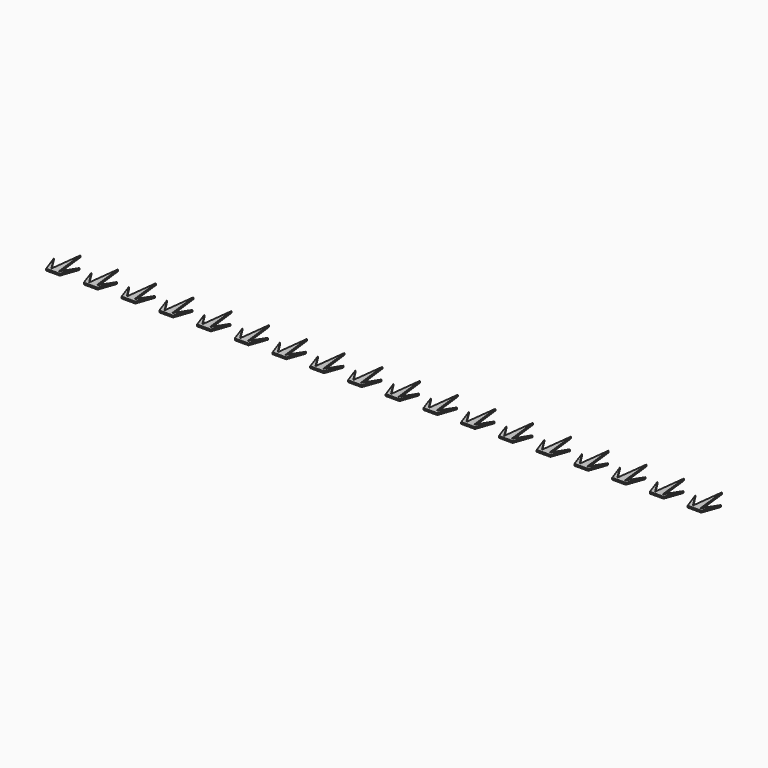
from build123d import *

# Parameters (mm, degrees)
F1_DEPTH = 5


with BuildPart() as f1:
    # F0 (on Top) → F1 (new body)
    with BuildSketch(Plane.XY):
        Polygon((-20, 0), (0, 0), (20, 0), (37.5, 49.839769), (11.039143, 7.96875), (0, 100), (-11.039143, 7.96875), (-37.5, 49.839769), align=None)
        Polygon((98.960857, 7.96875), (72.5, 49.839769), (90, 0), (110, 0), (130, 0), (147.5, 49.839769), (121.039143, 7.96875), (110, 100), align=None)
        Polygon((208.960857, 7.96875), (182.5, 49.839769), (200, 0), (220, 0), (240, 0), (257.5, 49.839769), (231.039143, 7.96875), (220, 100), align=None)
        Polygon((318.960857, 7.96875), (292.5, 49.839769), (310, 0), (330, 0), (350, 0), (367.5, 49.839769), (341.039143, 7.96875), (330, 100), align=None)
        Polygon((428.960857, 7.96875), (402.5, 49.839769), (420, 0), (440, 0), (460, 0), (477.5, 49.839769), (451.039143, 7.96875), (440, 100), align=None)
        Polygon((538.960857, 7.96875), (512.5, 49.839769), (530, 0), (550, 0), (570, 0), (587.5, 49.839769), (561.039143, 7.96875), (550, 100), align=None)
        Polygon((648.960857, 7.96875), (622.5, 49.839769), (640, 0), (660, 0), (680, 0), (697.5, 49.839769), (671.039143, 7.96875), (660, 100), align=None)
        Polygon((758.960857, 7.96875), (732.5, 49.839769), (750, 0), (770, 0), (790, 0), (807.5, 49.839769), (781.039143, 7.96875), (770, 100), align=None)
        Polygon((868.960857, 7.96875), (842.5, 49.839769), (860, 0), (880, 0), (900, 0), (917.5, 49.839769), (891.039143, 7.96875), (880, 100), align=None)
        Polygon((978.960857, 7.96875), (952.5, 49.839769), (970, 0), (990, 0), (1010, 0), (1027.5, 49.839769), (1001.039143, 7.96875), (990, 100), align=None)
        Polygon((1088.960857, 7.96875), (1062.5, 49.839769), (1080, 0), (1100, 0), (1120, 0), (1137.5, 49.839769), (1111.039143, 7.96875), (1100, 100), align=None)
        Polygon((1198.960857, 7.96875), (1172.5, 49.839769), (1190, 0), (1210, 0), (1230, 0), (1247.5, 49.839769), (1221.039143, 7.96875), (1210, 100), align=None)
        Polygon((1308.960857, 7.96875), (1282.5, 49.839769), (1300, 0), (1320, 0), (1340, 0), (1357.5, 49.839769), (1331.039143, 7.96875), (1320, 100), align=None)
        Polygon((1418.960857, 7.96875), (1392.5, 49.839769), (1410, 0), (1430, 0), (1450, 0), (1467.5, 49.839769), (1441.039143, 7.96875), (1430, 100), align=None)
        Polygon((1528.960857, 7.96875), (1502.5, 49.839769), (1520, 0), (1540, 0), (1560, 0), (1577.5, 49.839769), (1551.039143, 7.96875), (1540, 100), align=None)
        Polygon((1638.960857, 7.96875), (1612.5, 49.839769), (1630, 0), (1650, 0), (1670, 0), (1687.5, 49.839769), (1661.039143, 7.96875), (1650, 100), align=None)
        Polygon((1748.960857, 7.96875), (1722.5, 49.839769), (1740, 0), (1760, 0), (1780, 0), (1797.5, 49.839769), (1771.039143, 7.96875), (1760, 100), align=None)
        Polygon((1858.960857, 7.96875), (1832.5, 49.839769), (1850, 0), (1870, 0), (1890, 0), (1907.5, 49.839769), (1881.039143, 7.96875), (1870, 100), align=None)
    extrude(amount=F1_DEPTH)


solid = f1.part
